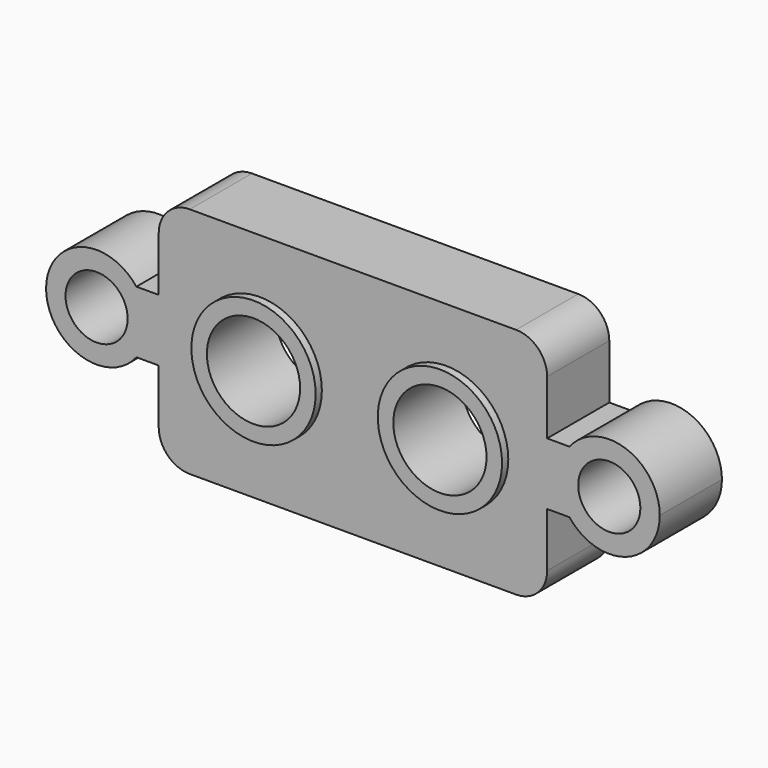
from build123d import *

# Parameters (mm, degrees)
F0_R     = 2
F0_R_2   = 4
F1_DEPTH = 5
F0_R_3   = 3
F2_DEPTH = 5.5


with BuildPart() as f1:
    # F0 (on Front) → F1 (new body)
    with BuildSketch(Plane.XZ):
        with BuildLine():
            Line((14.2, -2), (13.938262, -2))
            ThreePointArc((13.938262, -2), (17.557557, -3.073121), (19.75, 0))
            ThreePointArc((19.75, 0), (17.557557, 3.073121), (13.938262, 2))
            Line((13.938262, 2), (14.2, 2))
            Line((14.2, 2), (14.2, -2))
        make_face()
        with Locations((16.5, 0)):
            Circle(F0_R, mode=Mode.SUBTRACT)
        with BuildLine():
            ThreePointArc((13.938262, 2), (13.25, 0), (13.938262, -2))
            Line((13.938262, -2), (14.2, -2))
            Line((14.2, -2), (14.2, 2))
            Line((14.2, 2), (13.938262, 2))
        make_face()
        with BuildLine():
            Line((12.5, 2), (12.5, -2))
            Line((12.5, -2), (13.938262, -2))
            ThreePointArc((13.938262, -2), (13.25, 0), (13.938262, 2))
            Line((13.938262, 2), (12.5, 2))
        make_face()
        with BuildLine():
            ThreePointArc((-13.938262, 2), (-19.75, 0), (-13.938262, -2))
            Line((-13.938262, -2), (-14.2, -2))
            Line((-14.2, -2), (-14.2, 2))
            Line((-14.2, 2), (-13.938262, 2))
        make_face()
        with Locations((-16.5, 0)):
            Circle(F0_R, mode=Mode.SUBTRACT)
        with BuildLine():
            Line((-14.2, -2), (-13.938262, -2))
            ThreePointArc((-13.938262, -2), (-13.426879, -1.057557), (-13.25, 0))
            ThreePointArc((-13.25, 0), (-13.426879, 1.057557), (-13.938262, 2))
            Line((-13.938262, 2), (-14.2, 2))
            Line((-14.2, 2), (-14.2, -2))
        make_face()
        with BuildLine():
            Line((-13.938262, -2), (-12.5, -2))
            Line((-12.5, -2), (-12.5, 2))
            Line((-12.5, 2), (-13.938262, 2))
            ThreePointArc((-13.938262, 2), (-13.426879, 1.057557), (-13.25, 0))
            ThreePointArc((-13.25, 0), (-13.426879, -1.057557), (-13.938262, -2))
        make_face()
        with BuildLine():
            Line((-10.5, -7.5), (10.5, -7.5))
            ThreePointArc((10.5, -7.5), (11.914214, -6.914214), (12.5, -5.5))
            Line((12.5, -5.5), (12.5, -2))
            Line((12.5, -2), (12.5, 2))
            Line((12.5, 2), (12.5, 5.5))
            ThreePointArc((12.5, 5.5), (11.914214, 6.914214), (10.5, 7.5))
            Line((10.5, 7.5), (-10.5, 7.5))
            ThreePointArc((-10.5, 7.5), (-11.914214, 6.914214), (-12.5, 5.5))
            Line((-12.5, 5.5), (-12.5, 2))
            Line((-12.5, 2), (-12.5, -2))
            Line((-12.5, -2), (-12.5, -5.5))
            ThreePointArc((-12.5, -5.5), (-11.914214, -6.914214), (-10.5, -7.5))
        make_face()
        with Locations((-6, 0)):
            Circle(F0_R_2, mode=Mode.SUBTRACT)
        with Locations((6, 0)):
            Circle(F0_R_2, mode=Mode.SUBTRACT)
    extrude(amount=F1_DEPTH)

    # F0 (on Front) → F2 (join)
    with BuildSketch(Plane.XZ):
        with Locations((-6, 0)):
            Circle(F0_R_2)
        with Locations((-6, 0)):
            Circle(F0_R_3, mode=Mode.SUBTRACT)
        with Locations((6, 0)):
            Circle(F0_R_2)
        with Locations((6, 0)):
            Circle(F0_R_3, mode=Mode.SUBTRACT)
    extrude(amount=F2_DEPTH)


solid = f1.part
